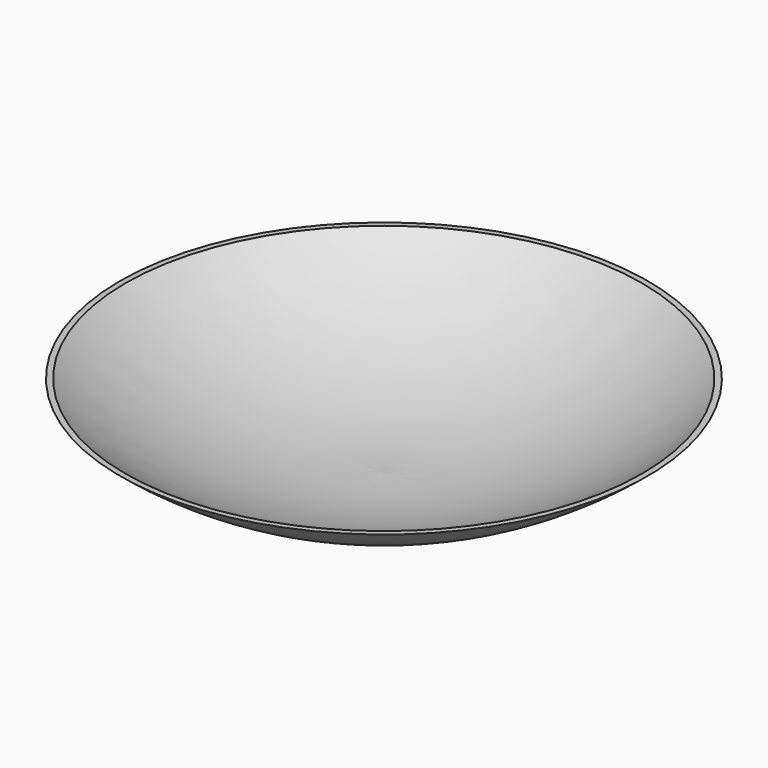
from build123d import *


with BuildPart() as f1:
    # F0 (on Front) → F1 (revolve)
    with BuildSketch(Plane.XZ):
        with BuildLine():
            Line((-37.990361, 0), (-76.268524, 0))
            ThreePointArc((-76.268524, 0), (-58.322806, -10.002681), (-37.990361, -12.95126))
            Line((-37.990361, -12.95126), (-37.990361, 0))
        make_face()
    revolve(axis=Axis((-37.990361, 0, -6.47563), (0, 0, -1)))

    # F2 (on Front) → F3 (revolve, cut)
    with BuildSketch(Plane.XZ):
        with BuildLine():
            Line((-38.017221, -12.10027), (-38.017221, 0))
            Line((-38.017221, 0), (-75.460583, 0))
            ThreePointArc((-75.460583, 0), (-57.849169, -9.485771), (-38.017221, -12.10027))
        make_face()
    revolve(axis=Axis((-38.017221, 0, -6.050135), (0, 0, -1)), mode=Mode.SUBTRACT)


solid = f1.part
